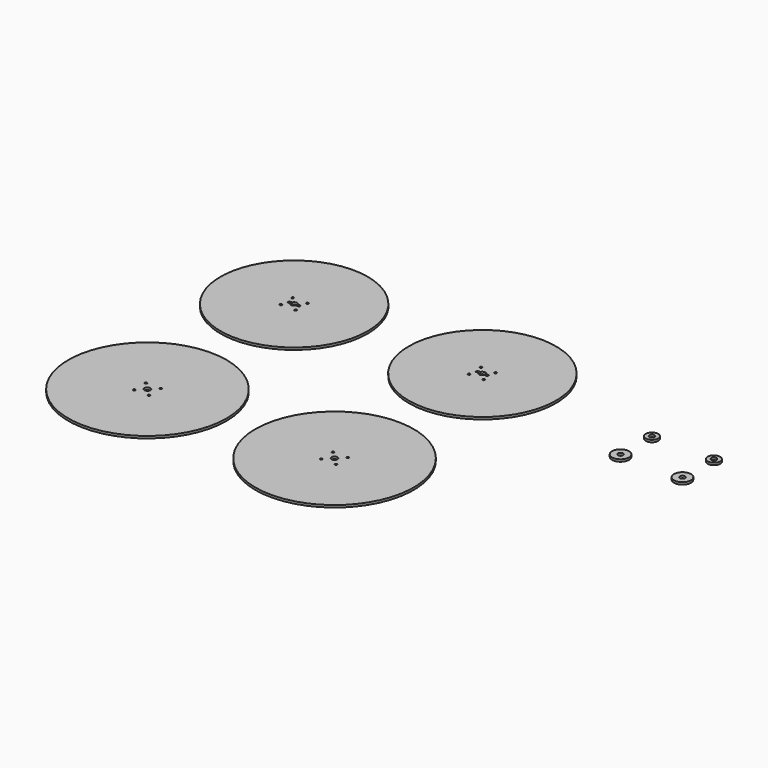
from build123d import *

# Parameters (mm, degrees)
F0_R     = 100
F0_R_2   = 1.5
F1_DEPTH = 3
F0_R_3   = 107.5
F0_R_4   = 4.05
F0_R_5   = 8.5
F0_R_6   = 3.5
F0_R_7   = 11.5


with BuildPart() as f1:
    # F0 (on Top) → F1 (new body)
    with BuildSketch(Plane.XY):
        with Locations((-127.8194664438, 53.3625107484)):
            Circle(F0_R)
        with Locations((-137.8194664438, 43.3625107484)):
            Circle(F0_R_2, mode=Mode.SUBTRACT)
        with Locations((-117.8194664438, 43.3625107484)):
            Circle(F0_R_2, mode=Mode.SUBTRACT)
        with BuildLine():
            ThreePointArc((-131.581447305, 54.8625107484), (-127.8194664438, 57.4125107484), (-124.0574855826, 54.8625107484))
            Line((-124.0574855826, 54.8625107484), (-119.8194664438, 54.8625107484))
            Line((-119.8194664438, 54.8625107484), (-119.8194664438, 51.8625107484))
            Line((-119.8194664438, 51.8625107484), (-124.0574855826, 51.8625107484))
            ThreePointArc((-124.0574855826, 51.8625107484), (-127.8194664438, 49.3125107484), (-131.581447305, 51.8625107484))
            Line((-131.581447305, 51.8625107484), (-135.8194664438, 51.8625107484))
            Line((-135.8194664438, 51.8625107484), (-135.8194664438, 54.8625107484))
            Line((-135.8194664438, 54.8625107484), (-131.581447305, 54.8625107484))
        make_face(mode=Mode.SUBTRACT)
        with Locations((-137.8194664438, 63.3625107484)):
            Circle(F0_R_2, mode=Mode.SUBTRACT)
        with Locations((-117.8194664438, 63.3625107484)):
            Circle(F0_R_2, mode=Mode.SUBTRACT)
    extrude(amount=F1_DEPTH)


with BuildPart() as f1b:
    # F0 (on Top) → F1, piece 2 (new body)
    with BuildSketch(Plane.XY):
        with Locations((-127.025, -196.6374892516)):
            Circle(F0_R_3)
        with Locations((-137.025, -206.6374892516)):
            Circle(F0_R_2, mode=Mode.SUBTRACT)
        with Locations((-117.025, -206.6374892516)):
            Circle(F0_R_2, mode=Mode.SUBTRACT)
        with Locations((-127.025, -196.6374892516)):
            Circle(F0_R_4, mode=Mode.SUBTRACT)
        with Locations((-137.025, -186.6374892516)):
            Circle(F0_R_2, mode=Mode.SUBTRACT)
        with Locations((-117.025, -186.6374892516)):
            Circle(F0_R_2, mode=Mode.SUBTRACT)
    extrude(amount=F1_DEPTH)


with BuildPart() as f1c:
    # F0 (on Top) → F1, piece 3 (new body)
    with BuildSketch(Plane.XY):
        with Locations((358.1550717354, 53.3625107484)):
            Circle(F0_R_5)
        with Locations((358.1550717354, 53.3625107484)):
            Circle(F0_R_6, mode=Mode.SUBTRACT)
    extrude(amount=F1_DEPTH)


with BuildPart() as f1d:
    # F0 (on Top) → F1, piece 4 (new body)
    with BuildSketch(Plane.XY):
        with Locations((442.2701597214, 53.3625107484)):
            Circle(F0_R_5)
        with Locations((442.2701597214, 53.3625107484)):
            Circle(F0_R_6, mode=Mode.SUBTRACT)
    extrude(amount=F1_DEPTH)


with BuildPart() as f1e:
    # F0 (on Top) → F1, piece 5 (new body)
    with BuildSketch(Plane.XY):
        with Locations((358.1550717354, 0)):
            Circle(F0_R_7)
        with Locations((358.1550717354, 0)):
            Circle(F0_R_6, mode=Mode.SUBTRACT)
    extrude(amount=F1_DEPTH)


with BuildPart() as f1f:
    # F0 (on Top) → F1, piece 6 (new body)
    with BuildSketch(Plane.XY):
        with Locations((442.2701597214, 0)):
            Circle(F0_R_7)
        with Locations((442.2701597214, 0)):
            Circle(F0_R_6, mode=Mode.SUBTRACT)
    extrude(amount=F1_DEPTH)


with BuildPart() as f2_1:
    # F2: instance of F1
    add(f1.part.mirror(Plane.YZ))


with BuildPart() as f2_2:
    # F2: instance of F1b
    add(f1b.part.mirror(Plane.YZ))


solid = Compound([f1.part, f1b.part, f1c.part, f1d.part, f1e.part, f1f.part, f2_1.part, f2_2.part])
